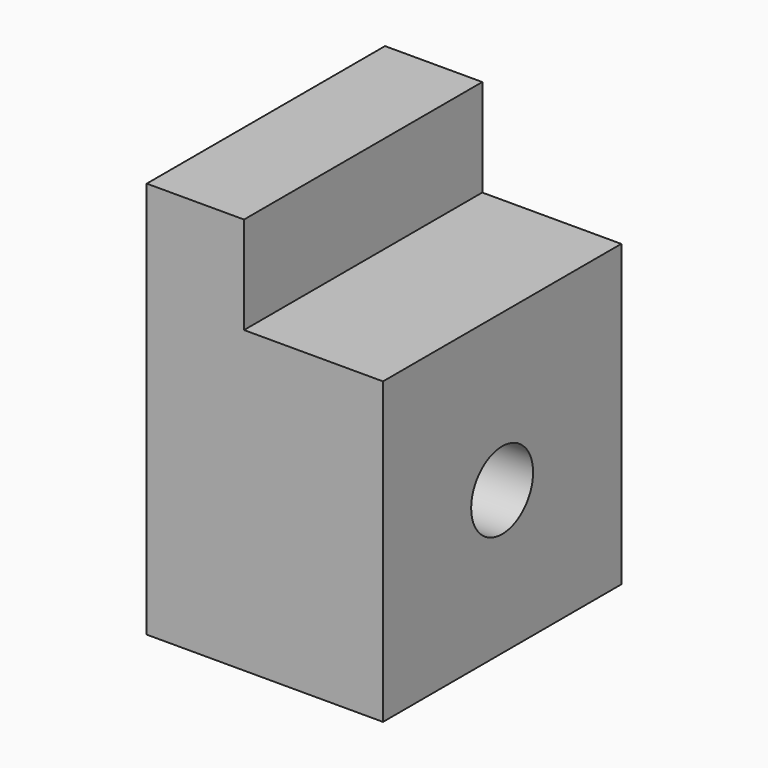
from build123d import *

# Parameters (mm, degrees)
F0_W           = 6.223
F0_H           = 19.05
F1_DEPTH       = 6.223
F1_DEPTH_BACK  = 19.177
F0_W_2         = 8.89
F2_DEPTH       = 19.177
F5_D           = 4.953
F5_START       = 0.0127
F5_CSINK_D     = 9.652
F5_CSINK_ANGLE = 90


with BuildPart() as f1:
    # F0 (on Top) → F1 (new body, two sides)
    with BuildSketch(Plane.XY) as f1_sk:
        with Locations((-4.445, 0)):
            Rectangle(F0_W, F0_H)
    extrude(amount=F1_DEPTH)
    extrude(f1_sk.sketch, amount=-F1_DEPTH_BACK)

    # F0 (on Top) → F2 (join)
    with BuildSketch(Plane.XY):
        with Locations((3.1115, 0)):
            Rectangle(F0_W_2, F0_H)
        with Locations((-4.445, 0)):
            Rectangle(F0_W, F0_H)
    extrude(amount=-F2_DEPTH)

    # F5 (through all)
    # its depths count from where the whole tool has entered the part; down to there all is cleared
    with Locations(Plane(origin=(-7.5692, 0, 0), x_dir=(0, 1, 0), z_dir=(-1, 0, 0)).offset(-F5_START)):
        with Locations((0, 10.0012505427)):
            CounterSinkHole(F5_D / 2, F5_CSINK_D / 2, counter_sink_angle=F5_CSINK_ANGLE)


solid = f1.part
